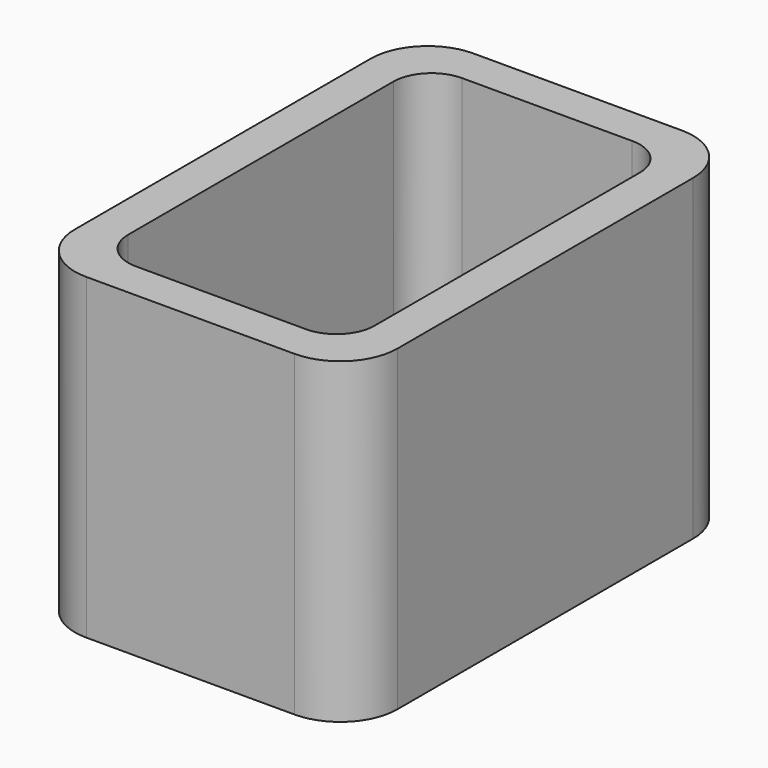
from build123d import *

# Parameters (mm, degrees)
EXTRUDE_DEPTH = 50


with BuildPart() as part:
    # Sketch → Extrude (new body)
    with BuildSketch(Plane.XY):
        with BuildLine():
            Line((-16.4, 38.1), (16.4, 38.1))
            ThreePointArc((25.4, 29.1), (22.763961, 35.463961), (16.4, 38.1))
            Line((25.4, 29.1), (25.4, -29.1))
            ThreePointArc((16.4, -38.1), (22.763961, -35.463961), (25.4, -29.1))
            Line((16.4, -38.1), (-16.4, -38.1))
            ThreePointArc((-25.4, -29.1), (-22.763961, -35.463961), (-16.4, -38.1))
            Line((-25.4, -29.1), (-25.4, 29.1))
            ThreePointArc((-16.4, 38.1), (-22.763961, 35.463961), (-25.4, 29.1))
        make_face()
        with BuildLine():
            Line((-13.4, 32.1), (13.4, 32.1))
            ThreePointArc((19.4, 26.1), (17.642641, 30.342641), (13.4, 32.1))
            Line((19.4, 26.1), (19.4, -26.1))
            ThreePointArc((13.4, -32.1), (17.642641, -30.342641), (19.4, -26.1))
            Line((13.4, -32.1), (-13.4, -32.1))
            ThreePointArc((-19.4, -26.1), (-17.642641, -30.342641), (-13.4, -32.1))
            Line((-19.4, -26.1), (-19.4, 26.1))
            ThreePointArc((-13.4, 32.1), (-17.642641, 30.342641), (-19.4, 26.1))
        make_face(mode=Mode.SUBTRACT)
    extrude(amount=EXTRUDE_DEPTH)


solid = part.part
